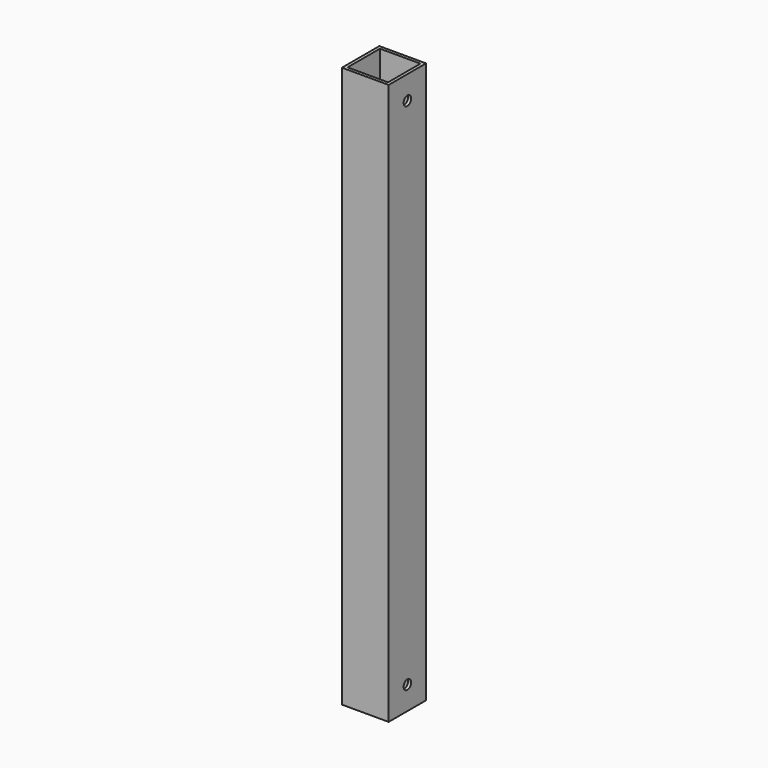
from build123d import *

# Parameters (mm, degrees)
F1_DEPTH = 90
F3_D     = 3


with BuildPart() as f1:
    # F0 (on Top) → F1 (new body, symmetric)
    with BuildSketch(Plane.XY):
        Polygon((-6.5, 6.5), (-7.5, 7.5), (-7.5, -7.5), (7.5, -7.5), (6.5, -6.5), (-6.5, -6.5), align=None)
        Polygon((7.5, 7.5), (-7.5, 7.5), (-6.5, 6.5), (6.5, 6.5), (6.5, -6.5), (7.5, -7.5), align=None)
    extrude(amount=F1_DEPTH, both=True)

    # F3 (through all)
    with Locations(Plane(origin=(-7.5, 0, 0), x_dir=(0, -1, 0), z_dir=(-1, 0, 0))):
        with Locations((0, 82.5), (0, -82.5)):
            Hole(F3_D / 2)


solid = f1.part
